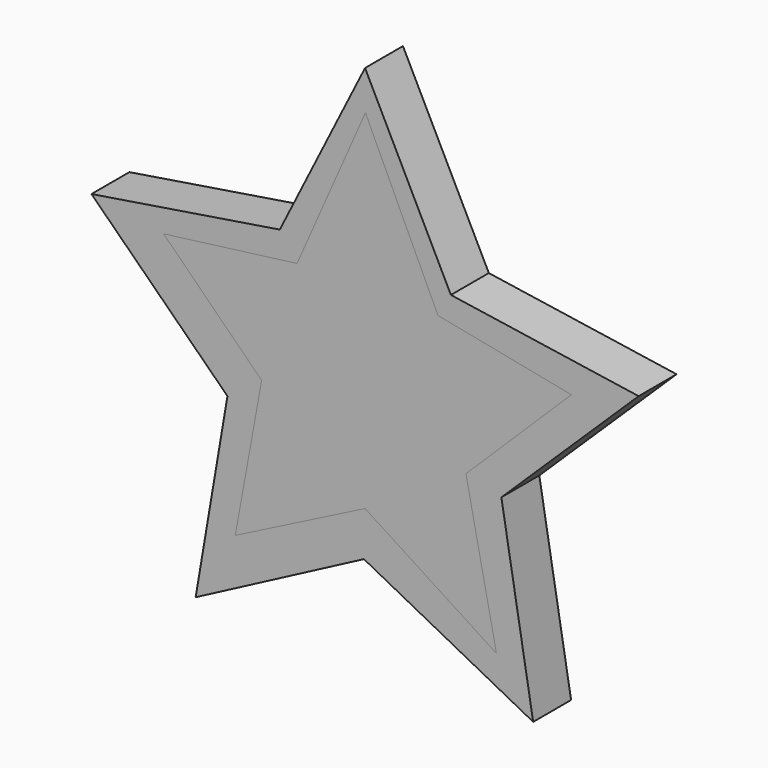
from build123d import *

# Parameters (mm, degrees)
F1_DEPTH = 12.7
F3_DEPTH = 12.7


with BuildPart() as f1:
    # F0 (on Front) → F1 (new body)
    with BuildSketch(Plane.XZ):
        Polygon((6.618203, -46.038546), (-16.379258, 0), (-39.209124, -45.537699), (-89.660898, -53.551219), (-53.232785, -89.361645), (-61.747152, -139.553732), (-16.671093, -115.906432), (28.655386, -139.553732), (20.14102, -89.361645), (56.902383, -53.551219), align=None)
    extrude(amount=F1_DEPTH)


with BuildPart() as f3:
    # F2 (on face) → F3 (new body)
    with BuildSketch(Plane.XZ.offset(12.7)):
        Polygon((3.150909, -52.012134), (-16.268918, -10.524325), (-34.585346, -52.012134), (-70.335478, -56.646414), (-44.074576, -82.686633), (-51.136333, -121.526286), (-16.379258, -103.871897), (18.819179, -126.60192), (10.654025, -86.879551), (38.901042, -59.073891), align=None)
    extrude(amount=-F3_DEPTH)


solid = Compound([f1.part, f3.part])
